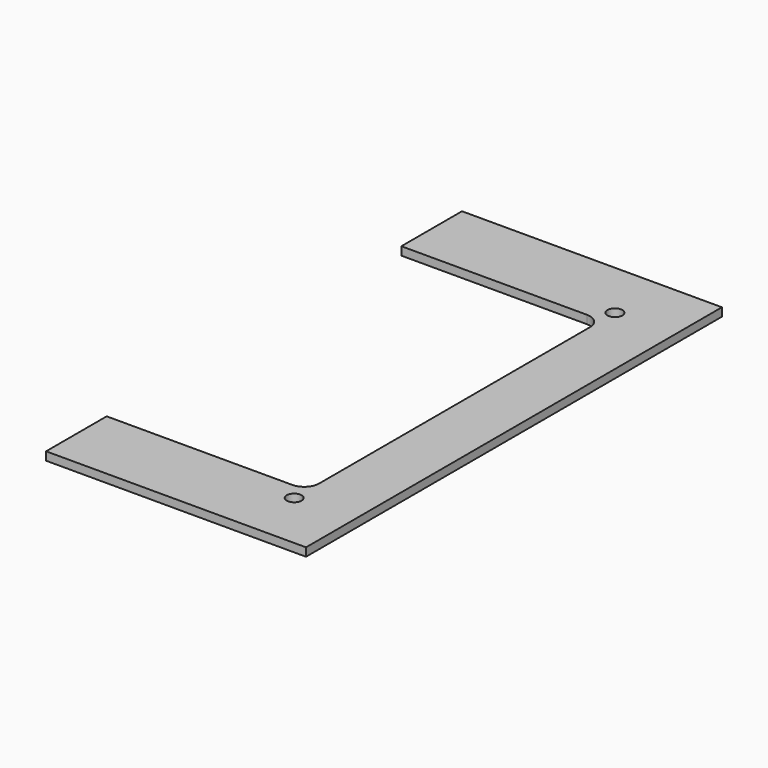
from build123d import *

# Parameters (mm, degrees)
F1_DEPTH = 2.8
F2_R     = 0.38
F3_DEPTH = 4
F4_R     = 2.5
F5_DEPTH = 2.801


with BuildPart() as f1:
    # F0 (on Top) → F1 (new body)
    with BuildSketch(Plane.XY):
        with BuildLine():
            Line((0, 25.5), (0, 0))
            Line((0, 0), (87.5, 0))
            Line((87.5, 0), (87.5, 175))
            Line((87.5, 175), (0, 175))
            Line((0, 175), (0, 149.5))
            Line((0, 149.5), (62.5, 149.5))
            ThreePointArc((62.5, 149.5), (66.035534, 148.035534), (67.5, 144.5))
            Line((67.5, 144.5), (67.5, 30.5))
            ThreePointArc((67.5, 30.5), (66.035534, 26.964466), (62.5, 25.5))
            Line((62.5, 25.5), (0, 25.5))
        make_face()
    extrude(amount=F1_DEPTH)

    # F2 (on face) → F3 (cut)
    with BuildSketch(Plane(origin=(67.5, 0, 0), x_dir=(0, -1, 0), z_dir=(-1, 0, 0))):
        with Locations((-106.55, 1.3)):
            Circle(F2_R)
        with Locations((-93.85, 1.3)):
            Circle(F2_R)
        with Locations((-81.15, 1.3)):
            Circle(F2_R)
        with Locations((-68.45, 1.3)):
            Circle(F2_R)
    extrude(amount=-F3_DEPTH, mode=Mode.SUBTRACT)

    # F4 (on face) → F5 (cut, through all)
    with BuildSketch(Plane.XY.offset(2.8)):
        with Locations((67.5, 155)):
            Circle(F4_R)
        with Locations((67.5, 20)):
            Circle(F4_R)
    extrude(amount=-F5_DEPTH, mode=Mode.SUBTRACT)


solid = f1.part
